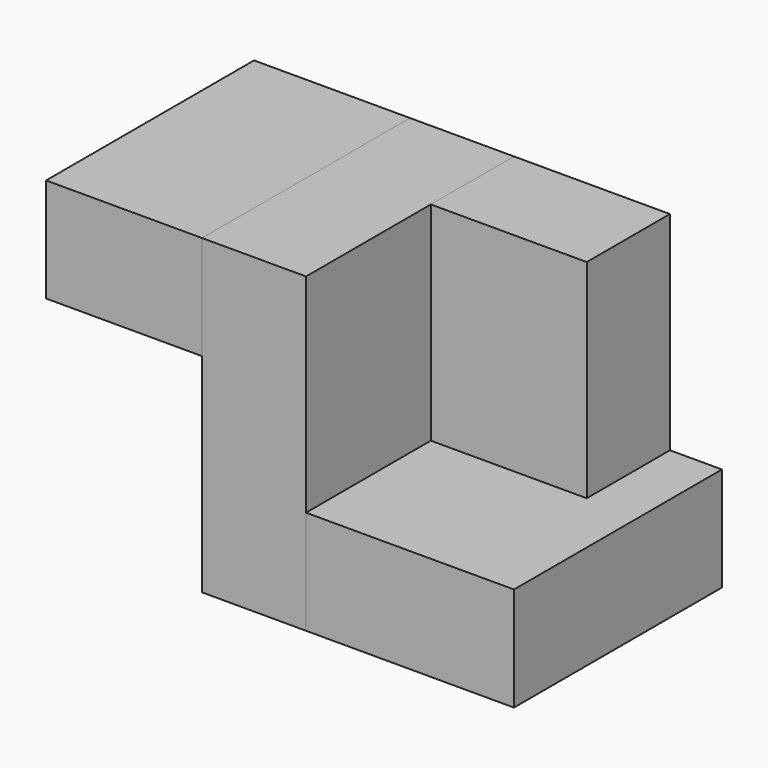
from build123d import *

# Parameters (mm, degrees)
F0_W     = 38.1
F0_H     = 63.5
F1_DEPTH = 25.4
F0_H_2   = 25.4
F2_DEPTH = 76.2
F3_DEPTH = 76.2
F4_DEPTH = 76.2
F5_DEPTH = 50.8


with BuildPart() as f1:
    # F0 (on Top) → F1 (new body)
    with BuildSketch(Plane.XY):
        with Locations((-24.9969350107, 10.0831652018)):
            Rectangle(F0_W, F0_H)
    extrude(amount=-F1_DEPTH)


with BuildPart() as f2:
    # F0 (on Top) → F2 (new body)
    with BuildSketch(Plane.XY):
        with Locations((38.5030649893, 29.1331652018)):
            Rectangle(F0_W, F0_H_2)
    extrude(amount=-F2_DEPTH)


with BuildPart() as f3:
    # F0 (on Top) → F3 (new body)
    with BuildSketch(Plane.XY):
        Polygon((19.4530649893, 41.8331652018), (-5.9469350107, 41.8331652018), (-5.9469350107, -21.6668347982), (19.4530649893, -21.6668347982), (19.4530649893, 16.4331652018), align=None)
    extrude(amount=-F3_DEPTH)


with BuildPart() as f4:
    # F0 (on Top) → F4 (new body)
    with BuildSketch(Plane.XY):
        Polygon((70.2530649893, 41.8331652018), (57.5530649893, 41.8331652018), (57.5530649893, 16.4331652018), (19.4530649893, 16.4331652018), (19.4530649893, -21.6668347982), (70.2530649893, -21.6668347982), (70.2530649893, 16.4331652018), align=None)
    extrude(amount=-F4_DEPTH)

    # F0 (on Top) → F5 (cut)
    with BuildSketch(Plane.XY):
        Polygon((70.2530649893, 41.8331652018), (57.5530649893, 41.8331652018), (57.5530649893, 16.4331652018), (19.4530649893, 16.4331652018), (19.4530649893, -21.6668347982), (70.2530649893, -21.6668347982), (70.2530649893, 16.4331652018), align=None)
    extrude(amount=-F5_DEPTH, mode=Mode.SUBTRACT)


solid = Compound([f1.part, f2.part, f3.part, f4.part])
